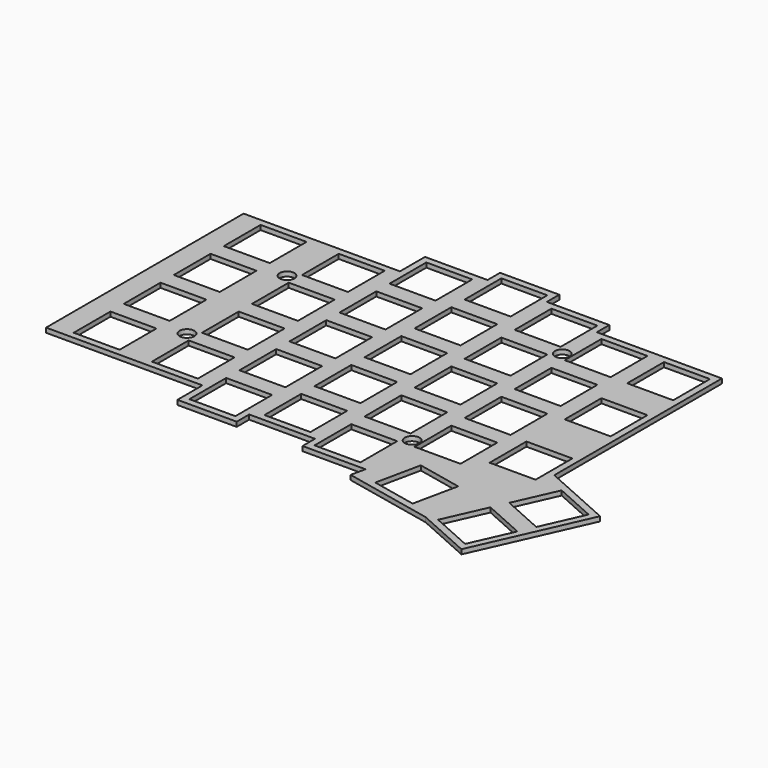
from build123d import *

# Parameters (mm, degrees)
PAD001_DEPTH    = 1.4
SKETCH012_R     = 2.25
POCKET_DEPTH    = 5
SKETCH011_W     = 14
SKETCH011_H     = 14
POCKET005_DEPTH = 5


with BuildPart() as part:
    # Sketch002 → Pad001 (new body)
    with BuildSketch(Plane.XY):
        Polygon((0.5, 75.7), (48.125, 75.7), (48.125, 85.225), (67.175, 85.225), (67.175, 89.9875), (85.225, 89.9875), (85.225, 85.225), (104.275, 85.225), (104.275, 80.4625), (142.375, 80.4625), (142.375, 16.647033), (164.08137, 6.943809), (148.940768, -26.926121), (131.957481, -19.334219), (104.444214, -13.486094), (105.392449, -9.025), (86.225, -9.025), (86.225, -4.2625), (66.175, -4.2625), (66.175, -9.025), (48.125, -9.025), (48.125, 0.5), (0.5, 0.5), align=None)
        Polygon((111.504412, -12.916546), (125.198478, -15.827309), (128.109242, -2.133243), (114.415175, 0.777521), align=None, mode=Mode.SUBTRACT)
        Polygon((135.137374, -18.537583), (147.91848, -24.251018), (153.631915, -11.469912), (140.850809, -5.756478), align=None, mode=Mode.SUBTRACT)
        Polygon((142.911774, -1.146151), (155.69288, -6.859586), (161.406273, 5.921518), (148.625201, 11.634938), align=None, mode=Mode.SUBTRACT)
    extrude(amount=PAD001_DEPTH)

    # Sketch012 (on Face37 of Pad001) → Pocket (cut)
    with BuildSketch(Plane.XY.offset(1.4)):
        with Locations((28.575, 57.15)):
            Circle(SKETCH012_R)
        with Locations((28.575, 19.05)):
            Circle(SKETCH012_R)
        with Locations((104.775, 66.675)):
            Circle(SKETCH012_R)
        with Locations((104.775, 9.525)):
            Circle(SKETCH012_R)
    extrude(amount=-POCKET_DEPTH, mode=Mode.SUBTRACT)

    # Sketch011 (on Face37 of Pad001) → Pocket005 (cut)
    with BuildSketch(Plane.XY.offset(1.4)):
        with Locations((14.2875, 9.525)):
            Rectangle(SKETCH011_W, SKETCH011_H)
        with Locations((14.2875, 28.575)):
            Rectangle(SKETCH011_W, SKETCH011_H)
        with Locations((14.2875, 47.625)):
            Rectangle(SKETCH011_W, SKETCH011_H)
        with Locations((14.2875, 66.675)):
            Rectangle(SKETCH011_W, SKETCH011_H)
        with Locations((38.1, 9.525)):
            Rectangle(SKETCH011_W, SKETCH011_H)
        with Locations((38.1, 28.575)):
            Rectangle(SKETCH011_W, SKETCH011_H)
        with Locations((38.1, 47.625)):
            Rectangle(SKETCH011_W, SKETCH011_H)
        with Locations((38.1, 66.675)):
            Rectangle(SKETCH011_W, SKETCH011_H)
        with Locations((57.15, 0)):
            Rectangle(SKETCH011_W, SKETCH011_H)
        with Locations((57.15, 19.05)):
            Rectangle(SKETCH011_W, SKETCH011_H)
        with Locations((57.15, 38.1)):
            Rectangle(SKETCH011_W, SKETCH011_H)
        with Locations((57.15, 57.15)):
            Rectangle(SKETCH011_W, SKETCH011_H)
        with Locations((57.15, 76.2)):
            Rectangle(SKETCH011_W, SKETCH011_H)
        with Locations((76.2, 4.7625)):
            Rectangle(SKETCH011_W, SKETCH011_H)
        with Locations((76.2, 23.8125)):
            Rectangle(SKETCH011_W, SKETCH011_H)
        with Locations((76.2, 42.8625)):
            Rectangle(SKETCH011_W, SKETCH011_H)
        with Locations((76.2, 61.9125)):
            Rectangle(SKETCH011_W, SKETCH011_H)
        with Locations((76.2, 80.9625)):
            Rectangle(SKETCH011_W, SKETCH011_H)
        with Locations((95.25, 0)):
            Rectangle(SKETCH011_W, SKETCH011_H)
        with Locations((95.25, 19.05)):
            Rectangle(SKETCH011_W, SKETCH011_H)
        with Locations((95.25, 38.1)):
            Rectangle(SKETCH011_W, SKETCH011_H)
        with Locations((95.25, 57.15)):
            Rectangle(SKETCH011_W, SKETCH011_H)
        with Locations((95.25, 76.2)):
            Rectangle(SKETCH011_W, SKETCH011_H)
        with Locations((114.3, 14.2875)):
            Rectangle(SKETCH011_W, SKETCH011_H)
        with Locations((114.3, 33.3375)):
            Rectangle(SKETCH011_W, SKETCH011_H)
        with Locations((114.3, 52.3875)):
            Rectangle(SKETCH011_W, SKETCH011_H)
        with Locations((114.3, 71.4375)):
            Rectangle(SKETCH011_W, SKETCH011_H)
        with Locations((133.35, 19.05)):
            Rectangle(SKETCH011_W, SKETCH011_H)
        with Locations((133.35, 47.625)):
            Rectangle(SKETCH011_W, SKETCH011_H)
        with Locations((133.35, 71.4375)):
            Rectangle(SKETCH011_W, SKETCH011_H)
    extrude(amount=-POCKET005_DEPTH, mode=Mode.SUBTRACT)


with BuildPart() as part_1:
    # Body001 placement: moved
    add(part.part.moved(Location((0, 0, 5))))


solid = part_1.part
